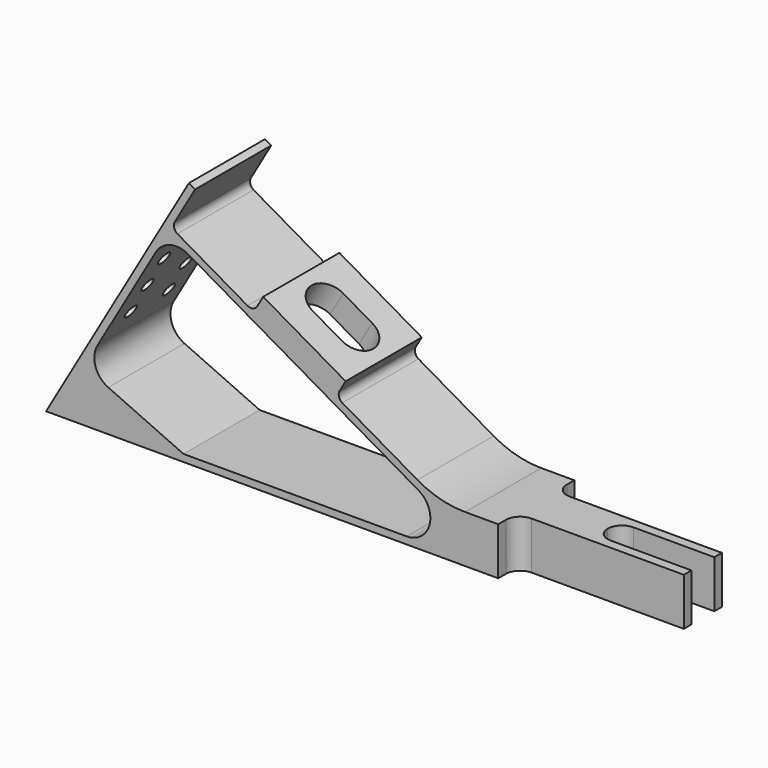
from build123d import *

# Parameters (mm, degrees)
F1_DEPTH = 20
F2_R     = 5.5
F2_R_2   = 4
F2_R_3   = 1.395
F3_DEPTH = 2
F4_DEPTH = 112.584302492
F6_DEPTH = 10.001
F8_DEPTH = 5.5


with BuildPart() as f1:
    # F0 (on Front) → F1 (new body)
    with BuildSketch(Plane.XZ):
        with BuildLine():
            Line((30, 51.9615242271), (0, 0))
            Line((0, 0), (130, 0))
            Line((130, 0), (130, 10))
            Line((130, 10), (88.0384757729, 10))
            ThreePointArc((88.0384757729, 10), (82.8620948709, 10.6814834742), (78.0384757729, 12.6794919243))
            Line((78.0384757729, 12.6794919243), (62.2390923627, 21.8012701892))
            ThreePointArc((62.2390923627, 21.8012701892), (61.5402036233, 22.7120797272), (61.6900542571, 23.8503082949))
            Line((61.6900542571, 23.8503082949), (62.9400542571, 26.0153718044))
            Line((62.9400542571, 26.0153718044), (45.6195461814, 36.0153718044))
            Line((45.6195461814, 36.0153718044), (44.3695461814, 33.8503082949))
            ThreePointArc((44.3695461814, 33.8503082949), (43.4587366433, 33.1514195555), (42.3205080757, 33.3012701892))
            Line((42.3205080757, 33.3012701892), (27.5980762114, 41.8012701892))
            ThreePointArc((27.5980762114, 41.8012701892), (26.8991874719, 42.7120797272), (27.0490381057, 43.8503082949))
            Line((27.0490381057, 43.8503082949), (31.2990381057, 51.2115242271))
            Line((31.2990381057, 51.2115242271), (30, 51.9615242271))
        make_face()
        with BuildLine():
            ThreePointArc((13.0711054025, 8.6635187293), (10.3758012826, 11.6884456075), (10.8062850623, 15.7170347689))
            Line((10.8062850623, 15.7170347689), (23.0490381057, 36.9221050646))
            ThreePointArc((23.0490381057, 36.9221050646), (26.0850698991, 39.2517341961), (29.8791651246, 38.7522320835))
            Line((29.8791651246, 38.7522320835), (78.2416697508, 10.8301270189))
            ThreePointArc((78.2416697508, 10.8301270189), (80.5712988822, 5.2059047745), (75.7416697508, 1.5))
            Line((75.7416697508, 1.5), (28.8649813291, 1.5))
            Line((28.8649813291, 1.5), (13.0711054025, 8.6635187293))
        make_face(mode=Mode.SUBTRACT)
    extrude(amount=F1_DEPTH)

    # F2 (on face) → F3 (cut)
    with BuildSketch(Plane(origin=(0, 0, 0), x_dir=(0, -1, 0), z_dir=(-0.8660254038, 0, 0.5))):
        with Locations((10, 7.5)):
            Circle(F2_R)
        with Locations((10, 7.5)):
            Circle(F2_R_2, mode=Mode.SUBTRACT)
        with Locations((5, 25)):
            Circle(F2_R_3)
        with Locations((15, 25)):
            Circle(F2_R_3)
        with Locations((15, 32)):
            Circle(F2_R_3)
        with Locations((15, 39)):
            Circle(F2_R_3)
        with Locations((5, 39)):
            Circle(F2_R_3)
        with Locations((5, 32)):
            Circle(F2_R_3)
    extrude(amount=-F3_DEPTH, mode=Mode.SUBTRACT)

    # F4 (cut, through all): a face of the model
    f4_faces = [f1.faces().sort_by_distance(p)[0] for p in [
        (3.75, -10, 6.4951905284),
    ]]
    extrude(f4_faces, amount=-F4_DEPTH, mode=Mode.SUBTRACT)

    # F5 (on face) → F6 (cut, through all)
    with BuildSketch(Plane.XY.offset(10)):
        with BuildLine():
            Line((130, -13), (130, -10))
            Line((130, -10), (130, -7))
            Line((130, -7), (113, -7))
            ThreePointArc((113, -7), (110.8786796564, -7.8786796564), (110, -10))
            ThreePointArc((110, -10), (110.8786796564, -12.1213203436), (113, -13))
            Line((113, -13), (130, -13))
        make_face()
        with BuildLine():
            Line((130, -20), (130, -15))
            Line((130, -15), (98, -15))
            ThreePointArc((98, -15), (95.8786796564, -15.8786796564), (95, -18))
            Line((95, -18), (95, -20))
            Line((95, -20), (130, -20))
        make_face()
        with BuildLine():
            Line((98, -5), (130, -5))
            Line((130, -5), (130, 0))
            Line((130, 0), (95, 0))
            Line((95, 0), (95, -2))
            ThreePointArc((95, -2), (95.8786796564, -4.1213203436), (98, -5))
        make_face()
    extrude(amount=-F6_DEPTH, mode=Mode.SUBTRACT)

    # F7 (on face) → F8 (cut, through all)
    with BuildSketch(Plane(origin=(27, 0, 46.7653718044), x_dir=(0.8660254038, 0, -0.5), z_dir=(0.5, 0, 0.8660254038))):
        with BuildLine():
            Line((35, -6), (28, -6))
            ThreePointArc((28, -6), (25.1715728753, -7.1715728753), (24, -10))
            ThreePointArc((24, -10), (25.1715728753, -12.8284271247), (28, -14))
            Line((28, -14), (35, -14))
            ThreePointArc((35, -14), (37.8284271247, -12.8284271247), (39, -10))
            ThreePointArc((39, -10), (37.8284271247, -7.1715728753), (35, -6))
        make_face()
    extrude(amount=-F8_DEPTH, mode=Mode.SUBTRACT)


solid = f1.part
